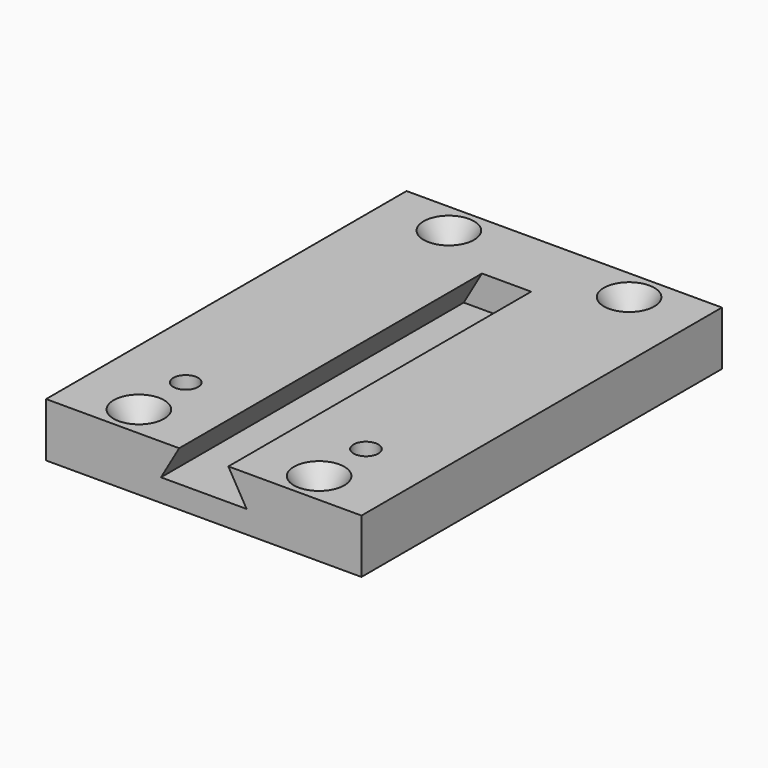
from build123d import *

# Parameters (mm, degrees)
F1_DEPTH       = 84
F2_DEPTH       = 16
F4_D           = 5.5
F4_CSINK_D     = 11.2
F4_CSINK_ANGLE = 60
F6_D           = 5.5
F6_CSINK_D     = 11.2
F6_CSINK_ANGLE = 60


with BuildPart() as f1:
    # F0 (on Front) → F1 (new body)
    with BuildSketch(Plane.XZ):
        Polygon((-48.092596, -0.963417), (-48.092596, -12.963417), (21.907404, -12.963417), (21.907404, -0.963417), (-7.634048, -0.963417), (-3.592596, -7.963417), (-13.092596, -7.963417), (-22.592596, -7.963417), (-18.551144, -0.963417), align=None)
    extrude(amount=F1_DEPTH)

    # F0 (on Front) → F2 (join)
    with BuildSketch(Plane.XZ):
        Polygon((-48.092596, -0.963417), (-48.092596, -12.963417), (21.907404, -12.963417), (21.907404, -0.963417), (-7.634048, -0.963417), (-3.592596, -7.963417), (-13.092596, -7.963417), (-22.592596, -7.963417), (-18.551144, -0.963417), align=None)
        Polygon((-7.634048, -0.963417), (-18.551144, -0.963417), (-22.592596, -7.963417), (-13.092596, -7.963417), (-3.592596, -7.963417), align=None)
    extrude(amount=-F2_DEPTH)

    # F4 (through all)
    with Locations(Plane.XY.offset(-0.963417)):
        with Locations((-33.092596, 9), (6.907404, 9), (6.907404, -77), (-33.092596, -77)):
            CounterSinkHole(F4_D / 2, F4_CSINK_D / 2, counter_sink_angle=F4_CSINK_ANGLE)

    # F6 (through all)
    with Locations(Plane(origin=(0, 0, -12.963417), x_dir=(1, 0, 0), z_dir=(0, 0, -1))):
        with Locations((-33.092596, 64), (6.907404, 64)):
            CounterSinkHole(F6_D / 2, F6_CSINK_D / 2, counter_sink_angle=F6_CSINK_ANGLE)


solid = f1.part
